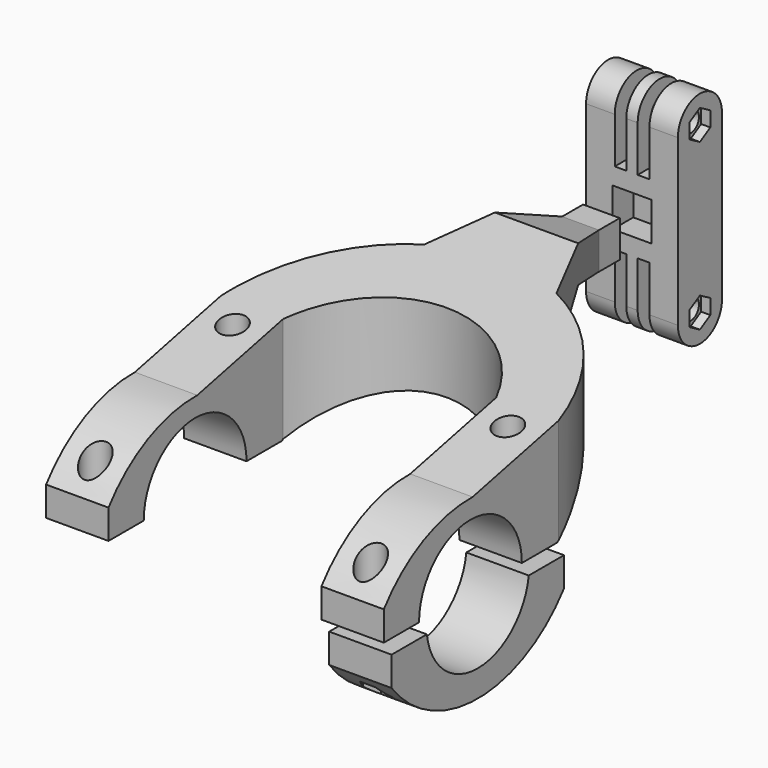
from build123d import *

# Parameters (mm, degrees)
PAD001_DEPTH    = 46
PAD002_DEPTH    = 46
POCKET002_DEPTH = 40
SKETCH004_R     = 2.3
POCKET003_DEPTH = 25
SKETCH005_R     = 3.7
POCKET004_DEPTH = 35
SKETCH014_R     = 3.7
POCKET010_DEPTH = 12
PAD_DEPTH       = 17
POCKET_DEPTH    = 25
SKETCH002_R     = 2.3
POCKET001_DEPTH = 5
SKETCH008_R     = 2.8
PAD003_DEPTH    = 12.5
POCKET005_DEPTH = 3.2
POCKET006_DEPTH = 3.14
POCKET007_DEPTH = 5
SKETCH012_R     = 3.7
POCKET008_DEPTH = 5
SKETCH013_W     = 10.5
SKETCH013_H     = 10.5
POCKET009_DEPTH = 7


with BuildPart() as obj1:
    # Sketch003 → Pad001 (new body, symmetric)
    with BuildSketch(Plane.YZ):
        with BuildLine():
            ThreePointArc((17.5, 0), (0, 17.5), (-17.5, 0))
            Line((-17.5, 0), (-29.5, 0))
            Line((-29.5, 0), (-29.5, 8))
            ThreePointArc((29.5, 8), (0, 22.667289), (-29.5, 8))
            Line((29.5, 0), (29.5, 8))
            Line((17.5, 0), (29.5, 0))
        make_face()
    extrude(amount=PAD001_DEPTH, both=True)

    # Sketch006 → Pad002 (join, symmetric)
    with BuildSketch(Plane.YZ):
        Polygon((0, 22.5), (29.5, 0), (80, 30), (95.096226, 25), (102.096226, 25), (102.096226, 35), (95, 35), (80, 40), align=None)
    extrude(amount=PAD002_DEPTH, both=True)

    # Sketch007 → Pocket002 (cut)
    with BuildSketch(Plane.XY.offset(40)):
        with BuildLine():
            Line((29, 30), (29, -29.5))
            Line((29, -29.5), (-29, -29.5))
            Line((-29, -29.5), (-29, 30))
            ThreePointArc((29, 30), (0, 49.38471), (-29, 30))
        make_face()
        with BuildLine():
            ThreePointArc((46, 30), (36.300802, 50.65218), (18, 64.27817))
            Line((18, 64.27817), (5, 95))
            Line((5, 95), (5, 103))
            Line((5, 103), (46, 103))
            Line((46, 103), (46, 30))
        make_face()
        with BuildLine():
            Line((-18, 64.27817), (-5, 95))
            Line((-5, 95), (-5, 103))
            Line((-5, 103), (-46, 103))
            Line((-46, 103), (-46, 30))
            ThreePointArc((-18, 64.27817), (-36.300802, 50.65218), (-46, 30))
        make_face()
    extrude(amount=-POCKET002_DEPTH, mode=Mode.SUBTRACT)

    # Sketch004 → Pocket003 (cut)
    with BuildSketch(Plane.XY):
        with Locations((37.5, 23.35)):
            Circle(SKETCH004_R)
        with Locations((37.5, -23.35)):
            Circle(SKETCH004_R)
        with Locations((-37.5, 23.35)):
            Circle(SKETCH004_R)
        with Locations((-37.5, -23.35)):
            Circle(SKETCH004_R)
    extrude(amount=POCKET003_DEPTH, mode=Mode.SUBTRACT)

    # Sketch005 → Pocket004 (cut)
    with BuildSketch(Plane.XY.offset(6)):
        with Locations((-37.5, -23.35)):
            Circle(SKETCH005_R)
        with Locations((37.5, -23.35)):
            Circle(SKETCH005_R)
    extrude(amount=POCKET004_DEPTH, mode=Mode.SUBTRACT)

    # Sketch014 → Pocket010 (cut)
    with BuildSketch(Plane.XY.offset(18)):
        with Locations((-37.5, 23.35)):
            Circle(SKETCH014_R)
        with Locations((37.5, 23.35)):
            Circle(SKETCH014_R)
    extrude(amount=POCKET010_DEPTH, mode=Mode.SUBTRACT)


with BuildPart() as obj2:
    # Sketch → Pad (new body)
    with BuildSketch(Plane.YZ.offset(31)):
        with BuildLine():
            ThreePointArc((-17.35, -2.286373), (0, -17.5), (17.35, -2.286373))
            Line((17.35, -2.286373), (29.35, -2.286373))
            Line((29.35, -2.286373), (29.35, -10.286373))
            ThreePointArc((-29.35, -10.286373), (0, -24.756892), (29.35, -10.286373))
            Line((-29.35, -2.286373), (-29.35, -10.286373))
            Line((-29.35, -2.286373), (-17.35, -2.286373))
        make_face()
    extrude(amount=PAD_DEPTH)

    # Sketch001 → Pocket (cut)
    with BuildSketch(Plane.XY.offset(-7)):
        Polygon((43.6, 23.35), (41.55, 26.900704), (37.45, 26.900704), (35.4, 23.35), (37.45, 19.799296), (41.55, 19.799296), align=None)
        Polygon((43.6, -23.35), (41.55, -19.799296), (37.45, -19.799296), (35.4, -23.35), (37.45, -26.900704), (41.55, -26.900704), align=None)
    extrude(amount=-POCKET_DEPTH, mode=Mode.SUBTRACT)

    # Sketch002 → Pocket001 (cut)
    with BuildSketch(Plane.XY.offset(-2)):
        with Locations((39.5, 23.35)):
            Circle(SKETCH002_R)
        with Locations((39.5, -23.35)):
            Circle(SKETCH002_R)
    extrude(amount=-POCKET001_DEPTH, mode=Mode.SUBTRACT)


with BuildPart() as obj3:
    # Sketch008 → Pad003 (new body, symmetric)
    with BuildSketch(Plane.YZ):
        with BuildLine():
            Line((7.5, 22.5), (7.5, -22.5))
            ThreePointArc((-7.5, -22.5), (0, -30), (7.5, -22.5))
            Line((-7.5, -22.5), (-7.5, 22.5))
            ThreePointArc((7.5, 22.5), (0, 30), (-7.5, 22.5))
        make_face()
        with Locations((0, 22.5)):
            Circle(SKETCH008_R, mode=Mode.SUBTRACT)
        with Locations((0, -22.5)):
            Circle(SKETCH008_R, mode=Mode.SUBTRACT)
    extrude(amount=PAD003_DEPTH, both=True)

    # Sketch009 → Pocket005 (cut)
    with BuildSketch(Plane.YZ.offset(1.55)):
        with BuildLine():
            ThreePointArc((7.5, 22.5), (0, 30.000001), (-7.5, 22.5))
            Line((-7.5, 22.5), (-7.5, 10))
            Line((-7.5, 10), (7.5, 10))
            Line((7.5, 10), (7.5, 22.5))
        make_face()
        with BuildLine():
            ThreePointArc((-7.5, -22.499999), (-1e-06, -30), (7.5, -22.5))
            Line((7.5, -10), (7.5, -22.5))
            Line((-7.5, -10), (7.5, -10))
            Line((-7.5, -22.499999), (-7.5, -10))
        make_face()
    extrude(amount=POCKET005_DEPTH, mode=Mode.SUBTRACT)

    # Sketch010 → Pocket006 (cut)
    with BuildSketch(Plane.YZ.offset(-1.55)):
        with BuildLine():
            ThreePointArc((7.5, 22.5), (0, 30.000001), (-7.5, 22.5))
            Line((-7.5, 22.5), (-7.5, 10))
            Line((-7.5, 10), (7.5, 10))
            Line((7.5, 10), (7.5, 22.5))
        make_face()
        with BuildLine():
            ThreePointArc((-7.5, -22.499999), (-1e-06, -30), (7.5, -22.5))
            Line((7.5, -10), (7.5, -22.5))
            Line((-7.5, -10), (7.5, -10))
            Line((-7.5, -22.499999), (-7.5, -10))
        make_face()
    extrude(amount=-POCKET006_DEPTH, mode=Mode.SUBTRACT)

    # Sketch011 → Pocket007 (cut)
    with BuildSketch(Plane.YZ.offset(10)):
        Polygon((3.550704, 24.55), (0, 26.6), (-3.550704, 24.55), (-3.550704, 20.45), (0, 18.4), (3.550704, 20.45), align=None)
        Polygon((3.550704, -20.45), (0, -18.4), (-3.550704, -20.45), (-3.550704, -24.55), (0, -26.6), (3.550704, -24.55), align=None)
    extrude(amount=POCKET007_DEPTH, mode=Mode.SUBTRACT)

    # Sketch012 → Pocket008 (cut)
    with BuildSketch(Plane.YZ.offset(-10)):
        with Locations((0, 22.5)):
            Circle(SKETCH012_R)
        with Locations((0, -22.5)):
            Circle(SKETCH012_R)
    extrude(amount=-POCKET008_DEPTH, mode=Mode.SUBTRACT)

    # Sketch013 → Pocket009 (cut)
    with BuildSketch(Plane.XZ.offset(7.5)):
        Rectangle(SKETCH013_W, SKETCH013_H)
    extrude(amount=-POCKET009_DEPTH, mode=Mode.SUBTRACT)


with BuildPart() as obj3_1:
    # Body002 placement: moved
    add(obj3.part.moved(Location((0, 120, 30))))


solid = Compound([obj1.part, obj2.part, obj3_1.part])
